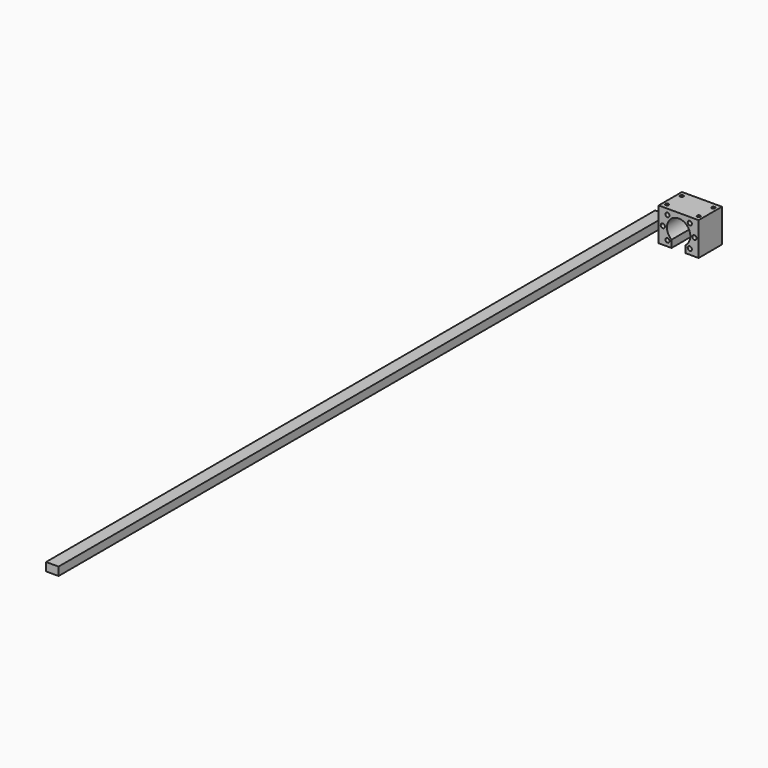
from build123d import *

# Parameters (mm, degrees)
F0_R     = 2.5
F1_DEPTH = 35
F2_R     = 2
F3_DEPTH = 17
F4_W     = 15
F4_H     = 10
F5_DEPTH = 914.4


with BuildPart() as f1:
    # F0 (on Front) → F1 (new body)
    with BuildSketch(Plane.XZ):
        with BuildLine():
            Line((0, 40), (0, 0))
            Line((0, 0), (15.5, 0))
            Line((15.5, 0), (15.5, 8.812842))
            ThreePointArc((15.5, 8.812842), (17.755903, 32.586252), (38.05, 20))
            ThreePointArc((38.05, 20), (36.586252, 13.755903), (32.5, 8.812842))
            Line((32.5, 8.812842), (32.5, 0))
            Line((32.5, 0), (48, 0))
            Line((48, 0), (48, 40))
            Line((48, 40), (0, 40))
        make_face()
        with Locations((10.564971, 6.564971)):
            Circle(F0_R, mode=Mode.SUBTRACT)
        with Locations((37.435029, 6.564971)):
            Circle(F0_R, mode=Mode.SUBTRACT)
        with Locations((5, 20)):
            Circle(F0_R, mode=Mode.SUBTRACT)
        with Locations((10.564971, 33.435029)):
            Circle(F0_R, mode=Mode.SUBTRACT)
        with Locations((43, 20)):
            Circle(F0_R, mode=Mode.SUBTRACT)
        with Locations((37.435029, 33.435029)):
            Circle(F0_R, mode=Mode.SUBTRACT)
    extrude(amount=F1_DEPTH)

    # F2 (on face) → F3 (cut)
    with BuildSketch(Plane.XY.offset(40)):
        with Locations((43, -6.5)):
            Circle(F2_R)
        with Locations((43, -28.5)):
            Circle(F2_R)
        with Locations((5, -6.5)):
            Circle(F2_R)
        with Locations((5, -28.5)):
            Circle(F2_R)
    extrude(amount=-F3_DEPTH, mode=Mode.SUBTRACT)


with BuildPart() as f5:
    # F4 (on Front) → F5 (new body)
    with BuildSketch(Plane.XZ):
        with Locations((-24.708313, 5)):
            Rectangle(F4_W, F4_H)
    extrude(amount=F5_DEPTH)


solid = Compound([f1.part, f5.part])
